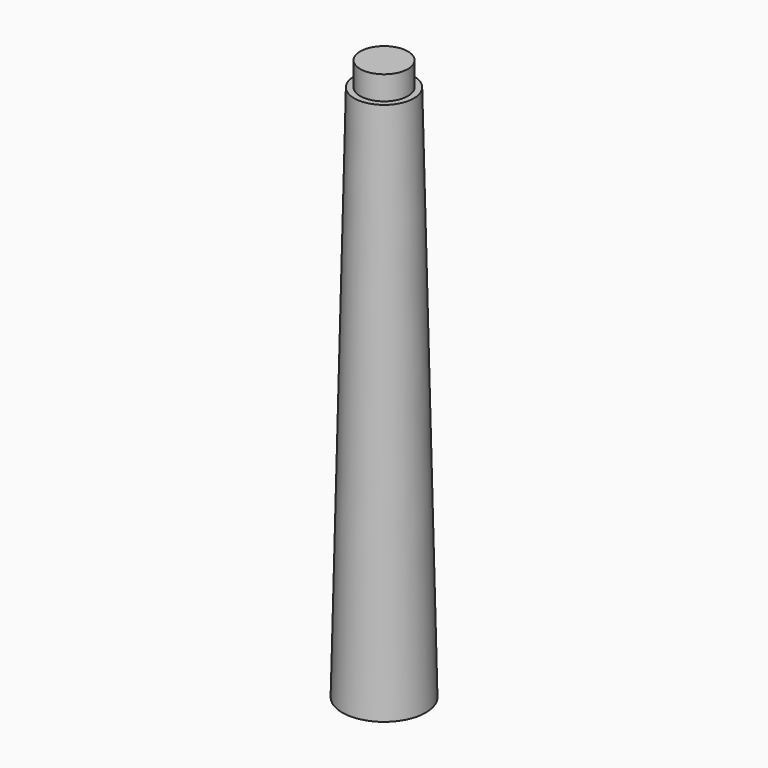
from build123d import *

# Parameters (mm, degrees)
F1_R     = 3.5
F2_R     = 2.5
F4_R     = 2
F5_DEPTH = 2


with BuildPart() as f3:
    # F1 (on Top) → F3 section 0
    with BuildSketch(Plane.XY):
        Circle(F1_R)
    # F2 (on offset) → F3 section 1
    with BuildSketch(Plane.XY.offset(45)):
        Circle(F2_R)
    loft()

    # F4 (on offset) → F5 (join)
    with BuildSketch(Plane.XY.offset(45)):
        Circle(F4_R)
    extrude(amount=F5_DEPTH)


solid = f3.part
